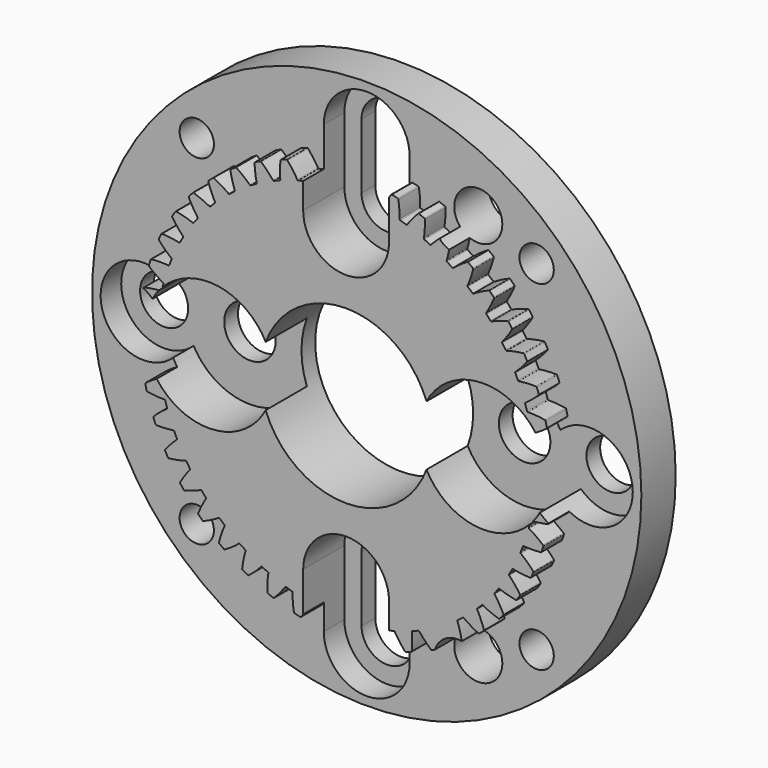
from build123d import *

# Parameters (mm, degrees)
F0_R     = 16
F2_DEPTH = 4
F1_R     = 5
F1_R_2   = 1.4
F1_R_3   = 1.5
F1_R_4   = 1
F3_DEPTH = 4.001
F5_DEPTH = 3
F6_R     = 16
F6_R_2   = 1
F7_DEPTH = 1.5


with BuildPart() as f2:
    # F0 (on Front) → F2 (new body)
    with BuildSketch(Plane.XZ):
        Circle(F0_R)
    extrude(amount=F2_DEPTH)

    # F1 (on Front) → F3 (cut, through all)
    with BuildSketch(Plane.XZ):
        Circle(F1_R)
        with Locations((-13, 0)):
            Circle(F1_R_2)
        with Locations((-8, 0)):
            Circle(F1_R_3)
        with BuildLine():
            Line((1.5, 9.2), (1.5, 13))
            ThreePointArc((1.5, 13), (0, 14.5), (-1.5, 13))
            Line((-1.5, 13), (-1.5, 9.2))
            ThreePointArc((-1.5, 9.2), (0, 7.7), (1.5, 9.2))
        make_face()
        with Locations((-9.8994949366, 9.8994949366)):
            Circle(F1_R_4)
        with BuildLine():
            Line((-1.5, -9.2), (-1.5, -13))
            ThreePointArc((-1.5, -13), (0, -14.5), (1.5, -13))
            Line((1.5, -13), (1.5, -9.2))
            ThreePointArc((1.5, -9.2), (0, -7.7), (-1.5, -9.2))
        make_face()
        with Locations((13, 0)):
            Circle(F1_R_2)
        with Locations((8, 0)):
            Circle(F1_R_3)
        with Locations((6.5, -11.2583302492)):
            Circle(F1_R_2)
        with Locations((6.5, 11.2583302492)):
            Circle(F1_R_2)
        with Locations((-9.8994949366, -9.8994949366)):
            Circle(F1_R_4)
        with Locations((9.8994949366, -9.8994949366)):
            Circle(F1_R_4)
        with Locations((9.8994949366, 9.8994949366)):
            Circle(F1_R_4)
    extrude(amount=F3_DEPTH, mode=Mode.SUBTRACT)

    # F4 (on face) → F5 (cut)
    with BuildSketch(Plane.XZ.offset(4)):
        with BuildLine():
            Line((2.5, 9.2), (2.5, 13))
            ThreePointArc((2.5, 13), (0, 15.5), (-2.5, 13))
            Line((-2.5, 13), (-2.5, 9.2))
            ThreePointArc((-2.5, 9.2), (0, 6.7), (2.5, 9.2))
        make_face()
        with BuildLine():
            ThreePointArc((-11.28125, -1.8154609435), (-4.25, 0), (-11.28125, 1.8154609435))
            ThreePointArc((-11.28125, 1.8154609435), (-15.5, 0), (-11.28125, -1.8154609435))
        make_face()
        with BuildLine():
            Line((-2.5, -9.2), (-2.5, -13))
            ThreePointArc((-2.5, -13), (0, -15.5), (2.5, -13))
            Line((2.5, -13), (2.5, -9.2))
            ThreePointArc((2.5, -9.2), (0, -6.7), (-2.5, -9.2))
        make_face()
        with BuildLine():
            ThreePointArc((11.28125, 1.8154609435), (4.25, 0), (11.28125, -1.8154609435))
            ThreePointArc((11.28125, -1.8154609435), (15.5, 0), (11.28125, 1.8154609435))
        make_face()
    extrude(amount=-F5_DEPTH, mode=Mode.SUBTRACT)

    # F6 (on face) → F7 (cut)
    with BuildSketch(Plane.XZ.offset(4)):
        Circle(F6_R)
        with Locations((-9.8994949366, -9.8994949366)):
            Circle(F6_R_2, mode=Mode.SUBTRACT)
        with Locations((9.8994949366, -9.8994949366)):
            Circle(F6_R_2, mode=Mode.SUBTRACT)
        with Locations((-9.8994949366, 9.8994949366)):
            Circle(F6_R_2, mode=Mode.SUBTRACT)
        with BuildLine():
            ThreePointArc((-2.7799608148, 10.6429233704), (-2.6402072605, 10.6784505253), (-2.5, 10.7121426428))
            Line((-2.5, 10.7121426428), (-2.5, 13))
            ThreePointArc((-2.5, 13), (0, 15.5), (2.5, 13))
            Line((2.5, 13), (2.5, 11.5043865576))
            ThreePointArc((2.5, 11.5043865576), (2.5619368446, 11.5922155903), (2.6255043837, 11.6788716903))
            ThreePointArc((2.6255043837, 11.6788716903), (2.6483126223, 11.6958597307), (2.6766950099, 11.697662323))
            ThreePointArc((2.6766950099, 11.697662323), (2.8411730456, 11.6588050728), (3.0050875246, 11.6176352572))
            ThreePointArc((3.0050875246, 11.6176352572), (3.0294585172, 11.6029770179), (3.0418940117, 11.5774003148))
            ThreePointArc((3.0418940117, 11.5774003148), (3.1018965081, 11.0835139522), (3.1189809656, 10.5862894958))
            ThreePointArc((3.1189809656, 10.5862894958), (3.1287401759, 10.5561640754), (3.1546397007, 10.5379432699))
            ThreePointArc((3.1546397007, 10.5379432699), (3.3276600597, 10.484592435), (3.4997788605, 10.4284010245))
            ThreePointArc((3.4997788605, 10.4284010245), (3.5314455725, 10.4283511277), (3.5567912907, 10.4473347447))
            ThreePointArc((3.5567912907, 10.4473347447), (3.8574883378, 10.8436998852), (4.1913231175, 11.212587915))
            ThreePointArc((4.1913231175, 11.212587915), (4.2162321235, 11.2263120065), (4.2445956089, 11.2242330748))
            ThreePointArc((4.2445956089, 11.2242330748), (4.4022506258, 11.1633413201), (4.5590324406, 11.100235277))
            ThreePointArc((4.5590324406, 11.100235277), (4.5811804772, 11.082395049), (4.5900174528, 11.055363269))
            ThreePointArc((4.5900174528, 11.055363269), (4.5822102317, 10.5579066518), (4.5314301756, 10.0629870375))
            ThreePointArc((4.5314301756, 10.0629870375), (4.5369964105, 10.0318133279), (4.5601736397, 10.0102355804))
            ThreePointArc((4.5601736397, 10.0102355804), (4.7243178733, 9.9338220556), (4.8871821543, 9.8547171746))
            ThreePointArc((4.8871821543, 9.8547171746), (4.9185471266, 9.8503557924), (4.9462417088, 9.8657113535))
            ThreePointArc((4.9462417088, 9.8657113535), (5.1861063071, 10.1119831896), (5.4402596835, 10.3434802825))
            ThreePointArc((5.4402596835, 10.3434802825), (6.0119612941, 12.5705109614), (7.9, 11.2583302492))
            ThreePointArc((7.9, 11.2583302492), (7.2932045472, 10.1047156921), (5.9988192196, 9.95111266))
            ThreePointArc((5.9988192196, 9.95111266), (5.9371543017, 9.6498073683), (5.8594674152, 9.3522301705))
            ThreePointArc((5.8594674152, 9.3522301705), (5.8607369863, 9.320588879), (5.880760172, 9.2960561422))
            ThreePointArc((5.880760172, 9.2960561422), (6.0329705837, 9.1980033668), (6.1835464914, 9.0974585895))
            ThreePointArc((6.1835464914, 9.0974585895), (6.2140254539, 9.0888669664), (6.2435530026, 9.1003084264))
            ThreePointArc((6.2435530026, 9.1003084264), (6.6400374226, 9.4008481799), (7.0610175025, 9.6659892953))
            ThreePointArc((7.0610175025, 9.6659892953), (7.0887055305, 9.6724840908), (7.1154563319, 9.6628298748))
            ThreePointArc((7.1154563319, 9.6628298748), (7.2508366743, 9.561661337), (7.3847787874, 9.4585962098))
            ThreePointArc((7.3847787874, 9.4585962098), (7.4012922788, 9.435442077), (7.4025084685, 9.4070285213))
            ThreePointArc((7.4025084685, 9.4070285213), (7.2607785712, 8.9301253079), (7.0783538634, 8.4672589506))
            ThreePointArc((7.0783538634, 8.4672589506), (7.075303121, 8.4357394946), (7.0917992691, 8.4087087669))
            ThreePointArc((7.0917992691, 8.4087087669), (7.229240467, 8.2908432786), (7.3647230571, 8.170731564))
            ThreePointArc((7.3647230571, 8.170731564), (7.3937482444, 8.1580697455), (7.4245587171, 8.1653839718))
            ThreePointArc((7.4245587171, 8.1653839718), (7.858273751, 8.409136527), (8.311436177, 8.6144846569))
            ThreePointArc((8.311436177, 8.6144846569), (8.3397506918, 8.6171487735), (8.3649377525, 8.6039419104))
            ThreePointArc((8.3649377525, 8.6039419104), (8.4852813742, 8.4852813742), (8.6039419104, 8.3649377525))
            ThreePointArc((8.6039419104, 8.3649377525), (8.6171487735, 8.3397506918), (8.6144846569, 8.311436177))
            ThreePointArc((8.6144846569, 8.311436177), (8.409136527, 7.858273751), (8.1653839718, 7.4245587171))
            ThreePointArc((8.1653839718, 7.4245587171), (8.1580697455, 7.3937482444), (8.170731564, 7.3647230571))
            ThreePointArc((8.170731564, 7.3647230571), (8.2908432786, 7.229240467), (8.4087087669, 7.0917992691))
            ThreePointArc((8.4087087669, 7.0917992691), (8.4357394946, 7.075303121), (8.4672589506, 7.0783538634))
            ThreePointArc((8.4672589506, 7.0783538634), (8.9301253079, 7.2607785712), (9.4070285213, 7.4025084685))
            ThreePointArc((9.4070285213, 7.4025084685), (9.435442077, 7.4012922788), (9.4585962098, 7.3847787874))
            ThreePointArc((9.4585962098, 7.3847787874), (9.561661337, 7.2508366743), (9.6628298748, 7.1154563319))
            ThreePointArc((9.6628298748, 7.1154563319), (9.6724840908, 7.0887055305), (9.6659892953, 7.0610175025))
            ThreePointArc((9.6659892953, 7.0610175025), (9.4008481799, 6.6400374226), (9.1003084264, 6.2435530026))
            ThreePointArc((9.1003084264, 6.2435530026), (9.0888669664, 6.2140254539), (9.0974585895, 6.1835464914))
            ThreePointArc((9.0974585895, 6.1835464914), (9.1980033668, 6.0329705837), (9.2960561422, 5.880760172))
            ThreePointArc((9.2960561422, 5.880760172), (9.320588879, 5.8607369863), (9.3522301705, 5.8594674152))
            ThreePointArc((9.3522301705, 5.8594674152), (9.8356255268, 5.9771660486), (10.3273857231, 6.0526375535))
            ThreePointArc((10.3273857231, 6.0526375535), (10.3553690289, 6.0475637128), (10.3760589161, 6.0280512083))
            ThreePointArc((10.3760589161, 6.0280512083), (10.4599256404, 5.8813226061), (10.5417176014, 5.7334274228))
            ThreePointArc((10.5417176014, 5.7334274228), (10.5476393306, 5.7056111976), (10.5374348419, 5.6790654319))
            ThreePointArc((10.5374348419, 5.6790654319), (10.2174398184, 5.2981097604), (9.8657113535, 4.9462417088))
            ThreePointArc((9.8657113535, 4.9462417088), (9.8503557924, 4.9185471266), (9.8547171746, 4.8871821543))
            ThreePointArc((9.8547171746, 4.8871821543), (9.9338220556, 4.7243178733), (10.0102355804, 4.5601736397))
            ThreePointArc((10.0102355804, 4.5601736397), (10.0318133279, 4.5369964105), (10.0629870375, 4.5314301756))
            ThreePointArc((10.0629870375, 4.5314301756), (10.5579066518, 4.5822102317), (11.055363269, 4.5900174528))
            ThreePointArc((11.055363269, 4.5900174528), (11.082395049, 4.5811804772), (11.100235277, 4.5590324406))
            ThreePointArc((11.100235277, 4.5590324406), (11.1633413201, 4.4022506258), (11.2242330748, 4.2445956089))
            ThreePointArc((11.2242330748, 4.2445956089), (11.2263120065, 4.2162321235), (11.212587915, 4.1913231175))
            ThreePointArc((11.212587915, 4.1913231175), (10.8436998852, 3.8574883378), (10.4473347447, 3.5567912907))
            ThreePointArc((10.4473347447, 3.5567912907), (10.4283511277, 3.5314455725), (10.4284010245, 3.4997788605))
            ThreePointArc((10.4284010245, 3.4997788605), (10.484592435, 3.3276600597), (10.5379432699, 3.1546397007))
            ThreePointArc((10.5379432699, 3.1546397007), (10.5561640754, 3.1287401759), (10.5862894958, 3.1189809656))
            ThreePointArc((10.5862894958, 3.1189809656), (11.0835139522, 3.1018965081), (11.5774003148, 3.0418940117))
            ThreePointArc((11.5774003148, 3.0418940117), (11.6029770179, 3.0294585172), (11.6176352572, 3.0050875246))
            ThreePointArc((11.6176352572, 3.0050875246), (11.6588050728, 2.8411730456), (11.697662323, 2.6766950099))
            ThreePointArc((11.697662323, 2.6766950099), (11.6958597307, 2.6483126223), (11.6788716903, 2.6255043837))
            ThreePointArc((11.6788716903, 2.6255043837), (11.3626035303, 2.4050637858), (11.0322749376, 2.2063111074))
            ThreePointArc((11.0322749376, 2.2063111074), (11.1628057555, 2.0147356533), (11.28125, 1.8154609435))
            ThreePointArc((11.28125, 1.8154609435), (15.4794666495, 0.3197579305), (11.7980769231, -2.1921179068))
            ThreePointArc((11.7980769231, -2.1921179068), (11.79685344, -2.198692547), (11.795626293, -2.2052665044))
            ThreePointArc((11.795626293, -2.2052665044), (11.7826653608, -2.2305809963), (11.7579969111, -2.2447329167))
            ThreePointArc((11.7579969111, -2.2447329167), (11.3302855381, -2.3290114302), (10.8974184118, -2.3806441454))
            ThreePointArc((10.8974184118, -2.3806441454), (10.7930566481, -2.5022658853), (10.68359375, -2.61931758))
            ThreePointArc((10.68359375, -2.61931758), (10.6635610695, -2.6997157843), (10.6429233704, -2.7799608148))
            ThreePointArc((10.6429233704, -2.7799608148), (10.6450346028, -2.8115571095), (10.6657036175, -2.835548253))
            ThreePointArc((10.6657036175, -2.835548253), (11.0816650316, -3.1084953921), (11.4724747894, -3.4163781166))
            ThreePointArc((11.4724747894, -3.4163781166), (11.4878667375, -3.4402924887), (11.4877282449, -3.4687317237))
            ThreePointArc((11.4877282449, -3.4687317237), (11.4377372018, -3.6301746106), (11.3854774429, -3.7908974395))
            ThreePointArc((11.3854774429, -3.7908974395), (11.36919024, -3.8142113041), (11.3428245339, -3.8248723926))
            ThreePointArc((11.3428245339, -3.8248723926), (10.8459948193, -3.8510310121), (10.3487636232, -3.8341438448))
            ThreePointArc((10.3487636232, -3.8341438448), (10.31804244, -3.8418244728), (10.2980966654, -3.8664201881))
            ThreePointArc((10.2980966654, -3.8664201881), (10.2330628767, -4.0353964069), (10.165256659, -4.2032793217))
            ThreePointArc((10.165256659, -4.2032793217), (10.1630458657, -4.2348688062), (10.1802555745, -4.2614509254))
            ThreePointArc((10.1802555745, -4.2614509254), (10.5551764042, -4.5884958921), (10.9004227799, -4.9467262353))
            ThreePointArc((10.9004227799, -4.9467262353), (10.9124150266, -4.9725137378), (10.9084053487, -5.0006692301))
            ThreePointArc((10.9084053487, -5.0006692301), (10.8368967879, -5.1538013164), (10.7632386902, -5.3059111279))
            ThreePointArc((10.7632386902, -5.3059111279), (10.7439286164, -5.3267900721), (10.7163567972, -5.3337617328))
            ThreePointArc((10.7163567972, -5.3337617328), (10.2205926498, -5.2920250721), (9.7302921609, -5.207588887))
            ThreePointArc((9.7302921609, -5.207588887), (9.6988112711, -5.2110147766), (9.6757021563, -5.2326654568))
            ThreePointArc((9.6757021563, -5.2326654568), (9.5882651704, -5.391212389), (9.4982304495, -5.5482986877))
            ThreePointArc((9.4982304495, -5.5482986877), (9.4917388134, -5.5792929097), (9.5051686319, -5.6079708301))
            ThreePointArc((9.5051686319, -5.6079708301), (9.8320648116, -5.9830213953), (10.1253165184, -6.3849262039))
            ThreePointArc((10.1253165184, -6.3849262039), (10.133685671, -6.4121064642), (10.1258795003, -6.4394537303))
            ThreePointArc((10.1258795003, -6.4394537303), (10.0341854911, -6.581422455), (9.9405011655, -6.7220857312))
            ThreePointArc((9.9405011655, -6.7220857312), (9.9185279309, -6.7401408198), (9.8902636095, -6.7432931838))
            ThreePointArc((9.8902636095, -6.7432931838), (9.4048001773, -6.6344387179), (8.930563766, -6.4840264014))
            ThreePointArc((8.930563766, -6.4840264014), (8.898909599, -6.4831337348), (8.8730676232, -6.5014360686))
            ThreePointArc((8.8730676232, -6.5014360686), (8.7648562256, -6.6466002847), (8.6542701781, -6.789963747))
            ThreePointArc((8.6542701781, -6.789963747), (8.643618626, -6.8197853428), (8.6530183822, -6.8500248488))
            ThreePointArc((8.6530183822, -6.8500248488), (8.9258004545, -7.2660945302), (9.1615947681, -7.704187078))
            ThreePointArc((9.1615947681, -7.704187078), (9.1661849249, -7.7322537794), (9.1547276758, -7.7582833915))
            ThreePointArc((9.1547276758, -7.7582833915), (9.0445563039, -7.8864441458), (8.9325909123, -8.013040596))
            ThreePointArc((8.9325909123, -8.013040596), (8.9083638366, -8.0279354968), (8.8799335238, -8.0272098416))
            ThreePointArc((8.8799335238, -8.0272098416), (8.4138140721, -7.8532653232), (7.9644758654, -7.6396787721))
            ThreePointArc((7.9644758654, -7.6396787721), (7.9332380785, -7.634484178), (7.9051446287, -7.6490972277))
            ThreePointArc((7.9051446287, -7.6490972277), (7.7781745931, -7.7781745931), (7.6490972277, -7.9051446287))
            ThreePointArc((7.6490972277, -7.9051446287), (7.634484178, -7.9332380785), (7.6396787721, -7.9644758654))
            ThreePointArc((7.6396787721, -7.9644758654), (7.8532653232, -8.4138140721), (8.0272098416, -8.8799335238))
            ThreePointArc((8.0272098416, -8.8799335238), (8.0279354968, -8.9083638366), (8.013040596, -8.9325909123))
            ThreePointArc((8.013040596, -8.9325909123), (7.8864441458, -9.0445563039), (7.7582833915, -9.1547276758))
            ThreePointArc((7.7582833915, -9.1547276758), (7.7322537794, -9.1661849249), (7.704187078, -9.1615947681))
            ThreePointArc((7.704187078, -9.1615947681), (7.2660945302, -8.9258004545), (6.8500248488, -8.6530183822))
            ThreePointArc((6.8500248488, -8.6530183822), (6.8197853428, -8.643618626), (6.789963747, -8.6542701781))
            ThreePointArc((6.789963747, -8.6542701781), (6.6466002847, -8.7648562256), (6.5014360686, -8.8730676232))
            ThreePointArc((6.5014360686, -8.8730676232), (6.4831337348, -8.898909599), (6.4840264014, -8.930563766))
            ThreePointArc((6.4840264014, -8.930563766), (6.6329813525, -9.3994159793), (6.7413149, -9.8792845215))
            ThreePointArc((6.7413149, -9.8792845215), (7.5718770592, -10.3577306878), (7.9, -11.2583302492))
            ThreePointArc((7.9, -11.2583302492), (6.283554991, -12.641497469), (5.1669263456, -10.8306450472))
            ThreePointArc((5.1669263456, -10.8306450472), (5.0839464606, -10.8698430709), (5.0006692301, -10.9084053487))
            ThreePointArc((5.0006692301, -10.9084053487), (4.9725137378, -10.9124150266), (4.9467262353, -10.9004227799))
            ThreePointArc((4.9467262353, -10.9004227799), (4.5884958921, -10.5551764042), (4.2614509254, -10.1802555745))
            ThreePointArc((4.2614509254, -10.1802555745), (4.2348688062, -10.1630458657), (4.2032793217, -10.165256659))
            ThreePointArc((4.2032793217, -10.165256659), (4.0353964069, -10.2330628767), (3.8664201881, -10.2980966654))
            ThreePointArc((3.8664201881, -10.2980966654), (3.8418244728, -10.31804244), (3.8341438448, -10.3487636232))
            ThreePointArc((3.8341438448, -10.3487636232), (3.8510310121, -10.8459948193), (3.8248723926, -11.3428245339))
            ThreePointArc((3.8248723926, -11.3428245339), (3.8142113041, -11.36919024), (3.7908974395, -11.3854774429))
            ThreePointArc((3.7908974395, -11.3854774429), (3.6301746106, -11.4377372018), (3.4687317237, -11.4877282449))
            ThreePointArc((3.4687317237, -11.4877282449), (3.4402924887, -11.4878667375), (3.4163781166, -11.4724747894))
            ThreePointArc((3.4163781166, -11.4724747894), (3.1084953921, -11.0816650316), (2.835548253, -10.6657036175))
            ThreePointArc((2.835548253, -10.6657036175), (2.8115571095, -10.6450346028), (2.7799608148, -10.6429233704))
            ThreePointArc((2.7799608148, -10.6429233704), (2.6402072605, -10.6784505253), (2.5, -10.7121426428))
            Line((2.5, -10.7121426428), (2.5, -13))
            ThreePointArc((2.5, -13), (0, -15.5), (-2.5, -13))
            Line((-2.5, -13), (-2.5, -11.5043865576))
            ThreePointArc((-2.5, -11.5043865576), (-2.5619368446, -11.5922155903), (-2.6255043837, -11.6788716903))
            ThreePointArc((-2.6255043837, -11.6788716903), (-2.6483126223, -11.6958597307), (-2.6766950099, -11.697662323))
            ThreePointArc((-2.6766950099, -11.697662323), (-2.8411730456, -11.6588050728), (-3.0050875246, -11.6176352572))
            ThreePointArc((-3.0050875246, -11.6176352572), (-3.0294585172, -11.6029770179), (-3.0418940117, -11.5774003148))
            ThreePointArc((-3.0418940117, -11.5774003148), (-3.1018965081, -11.0835139522), (-3.1189809656, -10.5862894958))
            ThreePointArc((-3.1189809656, -10.5862894958), (-3.1287401759, -10.5561640754), (-3.1546397007, -10.5379432699))
            ThreePointArc((-3.1546397007, -10.5379432699), (-3.3276600597, -10.484592435), (-3.4997788605, -10.4284010245))
            ThreePointArc((-3.4997788605, -10.4284010245), (-3.5314455725, -10.4283511277), (-3.5567912907, -10.4473347447))
            ThreePointArc((-3.5567912907, -10.4473347447), (-3.8574883378, -10.8436998852), (-4.1913231175, -11.212587915))
            ThreePointArc((-4.1913231175, -11.212587915), (-4.2162321235, -11.2263120065), (-4.2445956089, -11.2242330748))
            ThreePointArc((-4.2445956089, -11.2242330748), (-4.4022506258, -11.1633413201), (-4.5590324406, -11.100235277))
            ThreePointArc((-4.5590324406, -11.100235277), (-4.5811804772, -11.082395049), (-4.5900174528, -11.055363269))
            ThreePointArc((-4.5900174528, -11.055363269), (-4.5822102317, -10.5579066518), (-4.5314301756, -10.0629870375))
            ThreePointArc((-4.5314301756, -10.0629870375), (-4.5369964105, -10.0318133279), (-4.5601736397, -10.0102355804))
            ThreePointArc((-4.5601736397, -10.0102355804), (-4.7243178733, -9.9338220556), (-4.8871821543, -9.8547171746))
            ThreePointArc((-4.8871821543, -9.8547171746), (-4.9185471266, -9.8503557924), (-4.9462417088, -9.8657113535))
            ThreePointArc((-4.9462417088, -9.8657113535), (-5.2981097604, -10.2174398184), (-5.6790654319, -10.5374348419))
            ThreePointArc((-5.6790654319, -10.5374348419), (-5.7056111976, -10.5476393306), (-5.7334274228, -10.5417176014))
            ThreePointArc((-5.7334274228, -10.5417176014), (-5.8813226061, -10.4599256404), (-6.0280512083, -10.3760589161))
            ThreePointArc((-6.0280512083, -10.3760589161), (-6.0475637128, -10.3553690289), (-6.0526375535, -10.3273857231))
            ThreePointArc((-6.0526375535, -10.3273857231), (-5.9771660486, -9.8356255268), (-5.8594674152, -9.3522301705))
            ThreePointArc((-5.8594674152, -9.3522301705), (-5.8607369863, -9.320588879), (-5.880760172, -9.2960561422))
            ThreePointArc((-5.880760172, -9.2960561422), (-6.0329705837, -9.1980033668), (-6.1835464914, -9.0974585895))
            ThreePointArc((-6.1835464914, -9.0974585895), (-6.2140254539, -9.0888669664), (-6.2435530026, -9.1003084264))
            ThreePointArc((-6.2435530026, -9.1003084264), (-6.6400374226, -9.4008481799), (-7.0610175025, -9.6659892953))
            ThreePointArc((-7.0610175025, -9.6659892953), (-7.0887055305, -9.6724840908), (-7.1154563319, -9.6628298748))
            ThreePointArc((-7.1154563319, -9.6628298748), (-7.2508366743, -9.561661337), (-7.3847787874, -9.4585962098))
            ThreePointArc((-7.3847787874, -9.4585962098), (-7.4012922788, -9.435442077), (-7.4025084685, -9.4070285213))
            ThreePointArc((-7.4025084685, -9.4070285213), (-7.2607785712, -8.9301253079), (-7.0783538634, -8.4672589506))
            ThreePointArc((-7.0783538634, -8.4672589506), (-7.075303121, -8.4357394946), (-7.0917992691, -8.4087087669))
            ThreePointArc((-7.0917992691, -8.4087087669), (-7.229240467, -8.2908432786), (-7.3647230571, -8.170731564))
            ThreePointArc((-7.3647230571, -8.170731564), (-7.3937482444, -8.1580697455), (-7.4245587171, -8.1653839718))
            ThreePointArc((-7.4245587171, -8.1653839718), (-7.858273751, -8.409136527), (-8.311436177, -8.6144846569))
            ThreePointArc((-8.311436177, -8.6144846569), (-8.3397506918, -8.6171487735), (-8.3649377525, -8.6039419104))
            ThreePointArc((-8.3649377525, -8.6039419104), (-8.4852813742, -8.4852813742), (-8.6039419104, -8.3649377525))
            ThreePointArc((-8.6039419104, -8.3649377525), (-8.6171487735, -8.3397506918), (-8.6144846569, -8.311436177))
            ThreePointArc((-8.6144846569, -8.311436177), (-8.409136527, -7.858273751), (-8.1653839718, -7.4245587171))
            ThreePointArc((-8.1653839718, -7.4245587171), (-8.1580697455, -7.3937482444), (-8.170731564, -7.3647230571))
            ThreePointArc((-8.170731564, -7.3647230571), (-8.2908432786, -7.229240467), (-8.4087087669, -7.0917992691))
            ThreePointArc((-8.4087087669, -7.0917992691), (-8.4357394946, -7.075303121), (-8.4672589506, -7.0783538634))
            ThreePointArc((-8.4672589506, -7.0783538634), (-8.9301253079, -7.2607785712), (-9.4070285213, -7.4025084685))
            ThreePointArc((-9.4070285213, -7.4025084685), (-9.435442077, -7.4012922788), (-9.4585962098, -7.3847787874))
            ThreePointArc((-9.4585962098, -7.3847787874), (-9.561661337, -7.2508366743), (-9.6628298748, -7.1154563319))
            ThreePointArc((-9.6628298748, -7.1154563319), (-9.6724840908, -7.0887055305), (-9.6659892953, -7.0610175025))
            ThreePointArc((-9.6659892953, -7.0610175025), (-9.4008481799, -6.6400374226), (-9.1003084264, -6.2435530026))
            ThreePointArc((-9.1003084264, -6.2435530026), (-9.0888669664, -6.2140254539), (-9.0974585895, -6.1835464914))
            ThreePointArc((-9.0974585895, -6.1835464914), (-9.1980033668, -6.0329705837), (-9.2960561422, -5.880760172))
            ThreePointArc((-9.2960561422, -5.880760172), (-9.320588879, -5.8607369863), (-9.3522301705, -5.8594674152))
            ThreePointArc((-9.3522301705, -5.8594674152), (-9.8356255268, -5.9771660486), (-10.3273857231, -6.0526375535))
            ThreePointArc((-10.3273857231, -6.0526375535), (-10.3553690289, -6.0475637128), (-10.3760589161, -6.0280512083))
            ThreePointArc((-10.3760589161, -6.0280512083), (-10.4599256404, -5.8813226061), (-10.5417176014, -5.7334274228))
            ThreePointArc((-10.5417176014, -5.7334274228), (-10.5476393306, -5.7056111976), (-10.5374348419, -5.6790654319))
            ThreePointArc((-10.5374348419, -5.6790654319), (-10.2174398184, -5.2981097604), (-9.8657113535, -4.9462417088))
            ThreePointArc((-9.8657113535, -4.9462417088), (-9.8503557924, -4.9185471266), (-9.8547171746, -4.8871821543))
            ThreePointArc((-9.8547171746, -4.8871821543), (-9.9338220556, -4.7243178733), (-10.0102355804, -4.5601736397))
            ThreePointArc((-10.0102355804, -4.5601736397), (-10.0318133279, -4.5369964105), (-10.0629870375, -4.5314301756))
            ThreePointArc((-10.0629870375, -4.5314301756), (-10.5579066518, -4.5822102317), (-11.055363269, -4.5900174528))
            ThreePointArc((-11.055363269, -4.5900174528), (-11.082395049, -4.5811804772), (-11.100235277, -4.5590324406))
            ThreePointArc((-11.100235277, -4.5590324406), (-11.1633413201, -4.4022506258), (-11.2242330748, -4.2445956089))
            ThreePointArc((-11.2242330748, -4.2445956089), (-11.2263120065, -4.2162321235), (-11.212587915, -4.1913231175))
            ThreePointArc((-11.212587915, -4.1913231175), (-10.8436998852, -3.8574883378), (-10.4473347447, -3.5567912907))
            ThreePointArc((-10.4473347447, -3.5567912907), (-10.4283511277, -3.5314455725), (-10.4284010245, -3.4997788605))
            ThreePointArc((-10.4284010245, -3.4997788605), (-10.484592435, -3.3276600597), (-10.5379432699, -3.1546397007))
            ThreePointArc((-10.5379432699, -3.1546397007), (-10.5561640754, -3.1287401759), (-10.5862894958, -3.1189809656))
            ThreePointArc((-10.5862894958, -3.1189809656), (-11.0835139522, -3.1018965081), (-11.5774003148, -3.0418940117))
            ThreePointArc((-11.5774003148, -3.0418940117), (-11.6029770179, -3.0294585172), (-11.6176352572, -3.0050875246))
            ThreePointArc((-11.6176352572, -3.0050875246), (-11.6588050728, -2.8411730456), (-11.697662323, -2.6766950099))
            ThreePointArc((-11.697662323, -2.6766950099), (-11.6958597307, -2.6483126223), (-11.6788716903, -2.6255043837))
            ThreePointArc((-11.6788716903, -2.6255043837), (-11.3626035303, -2.4050637858), (-11.0322749376, -2.2063111074))
            ThreePointArc((-11.0322749376, -2.2063111074), (-11.1628057555, -2.0147356533), (-11.28125, -1.8154609435))
            ThreePointArc((-11.28125, -1.8154609435), (-15.4794666495, -0.3197579305), (-11.7980769231, 2.1921179068))
            ThreePointArc((-11.7980769231, 2.1921179068), (-11.79685344, 2.198692547), (-11.795626293, 2.2052665044))
            ThreePointArc((-11.795626293, 2.2052665044), (-11.7826653608, 2.2305809963), (-11.7579969111, 2.2447329167))
            ThreePointArc((-11.7579969111, 2.2447329167), (-11.3302855381, 2.3290114302), (-10.8974184118, 2.3806441454))
            ThreePointArc((-10.8974184117, 2.3806441454), (-10.7930566481, 2.5022658853), (-10.68359375, 2.61931758))
            ThreePointArc((-10.68359375, 2.61931758), (-10.6635610695, 2.6997157843), (-10.6429233704, 2.7799608148))
            ThreePointArc((-10.6429233704, 2.7799608148), (-10.6450346028, 2.8115571095), (-10.6657036175, 2.835548253))
            ThreePointArc((-10.6657036175, 2.835548253), (-11.0816650316, 3.1084953921), (-11.4724747894, 3.4163781166))
            ThreePointArc((-11.4724747894, 3.4163781166), (-11.4878667375, 3.4402924887), (-11.4877282449, 3.4687317237))
            ThreePointArc((-11.4877282449, 3.4687317237), (-11.4377372018, 3.6301746106), (-11.3854774429, 3.7908974395))
            ThreePointArc((-11.3854774429, 3.7908974395), (-11.36919024, 3.8142113041), (-11.3428245339, 3.8248723926))
            ThreePointArc((-11.3428245339, 3.8248723926), (-10.8459948193, 3.8510310121), (-10.3487636232, 3.8341438448))
            ThreePointArc((-10.3487636232, 3.8341438448), (-10.31804244, 3.8418244728), (-10.2980966654, 3.8664201881))
            ThreePointArc((-10.2980966654, 3.8664201881), (-10.2330628767, 4.0353964069), (-10.165256659, 4.2032793217))
            ThreePointArc((-10.165256659, 4.2032793217), (-10.1630458657, 4.2348688062), (-10.1802555745, 4.2614509254))
            ThreePointArc((-10.1802555745, 4.2614509254), (-10.5551764042, 4.5884958921), (-10.9004227799, 4.9467262353))
            ThreePointArc((-10.9004227799, 4.9467262353), (-10.9124150266, 4.9725137378), (-10.9084053487, 5.0006692301))
            ThreePointArc((-10.9084053487, 5.0006692301), (-10.8368967879, 5.1538013164), (-10.7632386902, 5.3059111279))
            ThreePointArc((-10.7632386902, 5.3059111279), (-10.7439286164, 5.3267900721), (-10.7163567972, 5.3337617328))
            ThreePointArc((-10.7163567972, 5.3337617328), (-10.2205926498, 5.2920250721), (-9.7302921609, 5.207588887))
            ThreePointArc((-9.7302921609, 5.207588887), (-9.6988112711, 5.2110147766), (-9.6757021563, 5.2326654568))
            ThreePointArc((-9.6757021563, 5.2326654568), (-9.5882651704, 5.391212389), (-9.4982304495, 5.5482986877))
            ThreePointArc((-9.4982304495, 5.5482986877), (-9.4917388134, 5.5792929097), (-9.5051686319, 5.6079708301))
            ThreePointArc((-9.5051686319, 5.6079708301), (-9.8320648116, 5.9830213953), (-10.1253165184, 6.3849262039))
            ThreePointArc((-10.1253165184, 6.3849262039), (-10.133685671, 6.4121064642), (-10.1258795003, 6.4394537303))
            ThreePointArc((-10.1258795003, 6.4394537303), (-10.0341854911, 6.581422455), (-9.9405011655, 6.7220857312))
            ThreePointArc((-9.9405011655, 6.7220857312), (-9.9185279309, 6.7401408198), (-9.8902636095, 6.7432931838))
            ThreePointArc((-9.8902636095, 6.7432931838), (-9.4048001773, 6.6344387179), (-8.930563766, 6.4840264014))
            ThreePointArc((-8.930563766, 6.4840264014), (-8.898909599, 6.4831337348), (-8.8730676232, 6.5014360686))
            ThreePointArc((-8.8730676232, 6.5014360686), (-8.7648562256, 6.6466002847), (-8.6542701781, 6.789963747))
            ThreePointArc((-8.6542701781, 6.789963747), (-8.643618626, 6.8197853428), (-8.6530183822, 6.8500248488))
            ThreePointArc((-8.6530183822, 6.8500248488), (-8.9258004545, 7.2660945302), (-9.1615947681, 7.704187078))
            ThreePointArc((-9.1615947681, 7.704187078), (-9.1661849249, 7.7322537794), (-9.1547276758, 7.7582833915))
            ThreePointArc((-9.1547276758, 7.7582833915), (-9.0445563039, 7.8864441458), (-8.9325909123, 8.013040596))
            ThreePointArc((-8.9325909123, 8.013040596), (-8.9083638366, 8.0279354968), (-8.8799335238, 8.0272098416))
            ThreePointArc((-8.8799335238, 8.0272098416), (-8.4138140721, 7.8532653232), (-7.9644758654, 7.6396787721))
            ThreePointArc((-7.9644758654, 7.6396787721), (-7.9332380785, 7.634484178), (-7.9051446287, 7.6490972277))
            ThreePointArc((-7.9051446287, 7.6490972277), (-7.7781745931, 7.7781745931), (-7.6490972277, 7.9051446287))
            ThreePointArc((-7.6490972277, 7.9051446287), (-7.634484178, 7.9332380785), (-7.6396787721, 7.9644758654))
            ThreePointArc((-7.6396787721, 7.9644758654), (-7.8532653232, 8.4138140721), (-8.0272098416, 8.8799335238))
            ThreePointArc((-8.0272098416, 8.8799335238), (-8.0279354968, 8.9083638366), (-8.013040596, 8.9325909123))
            ThreePointArc((-8.013040596, 8.9325909123), (-7.8864441458, 9.0445563039), (-7.7582833915, 9.1547276758))
            ThreePointArc((-7.7582833915, 9.1547276758), (-7.7322537794, 9.1661849249), (-7.704187078, 9.1615947681))
            ThreePointArc((-7.704187078, 9.1615947681), (-7.2660945302, 8.9258004545), (-6.8500248488, 8.6530183822))
            ThreePointArc((-6.8500248488, 8.6530183822), (-6.8197853428, 8.643618626), (-6.789963747, 8.6542701781))
            ThreePointArc((-6.789963747, 8.6542701781), (-6.6466002847, 8.7648562256), (-6.5014360686, 8.8730676232))
            ThreePointArc((-6.5014360686, 8.8730676232), (-6.4831337348, 8.898909599), (-6.4840264014, 8.930563766))
            ThreePointArc((-6.4840264014, 8.930563766), (-6.6344387179, 9.4048001773), (-6.7432931838, 9.8902636095))
            ThreePointArc((-6.7432931838, 9.8902636095), (-6.7401408198, 9.9185279309), (-6.7220857312, 9.9405011655))
            ThreePointArc((-6.7220857312, 9.9405011655), (-6.581422455, 10.0341854911), (-6.4394537303, 10.1258795003))
            ThreePointArc((-6.4394537303, 10.1258795003), (-6.4121064642, 10.133685671), (-6.3849262039, 10.1253165184))
            ThreePointArc((-6.3849262039, 10.1253165184), (-5.9830213953, 9.8320648116), (-5.6079708301, 9.5051686319))
            ThreePointArc((-5.6079708301, 9.5051686319), (-5.5792929097, 9.4917388134), (-5.5482986877, 9.4982304495))
            ThreePointArc((-5.5482986877, 9.4982304495), (-5.391212389, 9.5882651704), (-5.2326654568, 9.6757021563))
            ThreePointArc((-5.2326654568, 9.6757021563), (-5.2110147766, 9.6988112711), (-5.207588887, 9.7302921609))
            ThreePointArc((-5.207588887, 9.7302921609), (-5.2920250721, 10.2205926498), (-5.3337617328, 10.7163567972))
            ThreePointArc((-5.3337617328, 10.7163567972), (-5.3267900721, 10.7439286164), (-5.3059111279, 10.7632386902))
            ThreePointArc((-5.3059111279, 10.7632386902), (-5.1538013164, 10.8368967879), (-5.0006692301, 10.9084053487))
            ThreePointArc((-5.0006692301, 10.9084053487), (-4.9725137378, 10.9124150266), (-4.9467262353, 10.9004227799))
            ThreePointArc((-4.9467262353, 10.9004227799), (-4.5884958921, 10.5551764042), (-4.2614509254, 10.1802555745))
            ThreePointArc((-4.2614509254, 10.1802555745), (-4.2348688062, 10.1630458657), (-4.2032793217, 10.165256659))
            ThreePointArc((-4.2032793217, 10.165256659), (-4.0353964069, 10.2330628767), (-3.8664201881, 10.2980966654))
            ThreePointArc((-3.8664201881, 10.2980966654), (-3.8418244728, 10.31804244), (-3.8341438448, 10.3487636232))
            ThreePointArc((-3.8341438448, 10.3487636232), (-3.8510310121, 10.8459948193), (-3.8248723926, 11.3428245339))
            ThreePointArc((-3.8248723926, 11.3428245339), (-3.8142113041, 11.36919024), (-3.7908974395, 11.3854774429))
            ThreePointArc((-3.7908974395, 11.3854774429), (-3.6301746106, 11.4377372018), (-3.4687317237, 11.4877282449))
            ThreePointArc((-3.4687317237, 11.4877282449), (-3.4402924887, 11.4878667375), (-3.4163781166, 11.4724747894))
            ThreePointArc((-3.4163781166, 11.4724747894), (-3.1084953921, 11.0816650316), (-2.835548253, 10.6657036175))
            ThreePointArc((-2.835548253, 10.6657036175), (-2.8115571095, 10.6450346028), (-2.7799608148, 10.6429233704))
        make_face(mode=Mode.SUBTRACT)
        with Locations((9.8994949366, 9.8994949366)):
            Circle(F6_R_2, mode=Mode.SUBTRACT)
    extrude(amount=-F7_DEPTH, mode=Mode.SUBTRACT)


solid = f2.part
